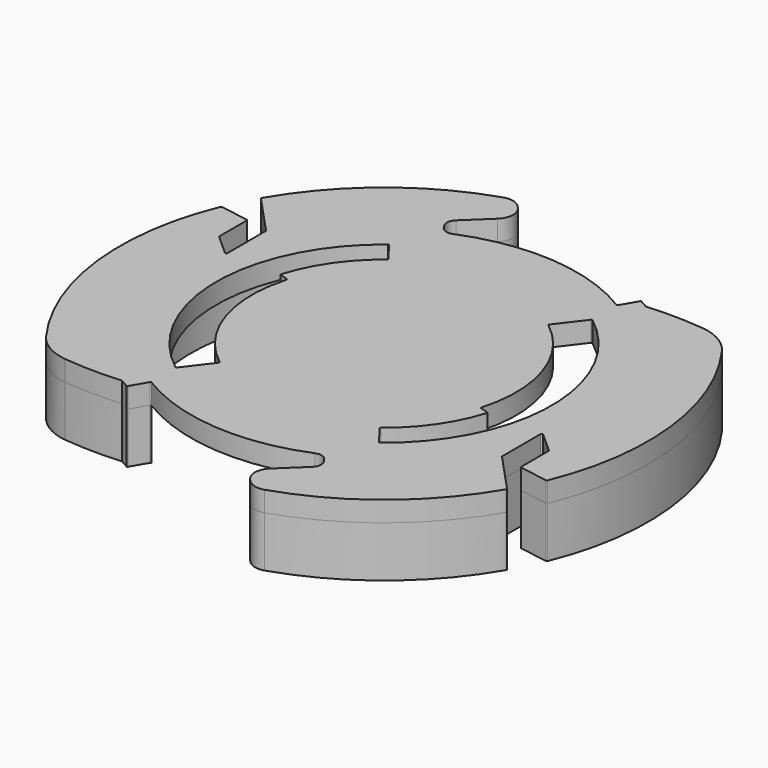
from build123d import *

# Parameters (mm, degrees)
F1_DEPTH = 2
F3_DEPTH = 5
F5_DEPTH = 5


with BuildPart() as f1:
    # F0 (on Top) → F1 (new body)
    with BuildSketch(Plane.XY):
        with BuildLine():
            ThreePointArc((-10.051418, -16.244553), (-9.989475, -16.197641), (-9.912644, -16.209241))
            ThreePointArc((-9.912644, -16.209241), (-1.493646, -18.941199), (7.249499, -17.562596))
            ThreePointArc((7.249499, -17.562596), (7.923655, -17.530709), (8.464529, -17.93439))
            Line((8.464529, -17.93439), (8.641459, -18.201273))
            ThreePointArc((8.641459, -18.201273), (8.801636, -18.866295), (8.496871, -19.478691))
            Line((8.496871, -19.478691), (6.165602, -21.694257))
            ThreePointArc((6.165602, -21.694257), (5.637265, -22.883284), (6.104443, -24.097642))
            Line((6.104443, -24.097642), (6.278833, -24.281139))
            ThreePointArc((6.278833, -24.281139), (7.093323, -24.757891), (8.036573, -24.726777))
            ThreePointArc((8.036573, -24.726777), (16.334412, -20.228371), (22.479545, -13.064075))
            ThreePointArc((22.479545, -13.064075), (22.492473, -13.002778), (22.466397, -12.945818))
            Line((22.466397, -12.945818), (18.832581, -9.028769))
            ThreePointArc((18.832581, -9.028769), (18.812803, -8.997288), (18.805892, -8.960758))
            Line((18.805892, -8.960758), (18.805892, -4.223607))
            ThreePointArc((18.805892, -4.223607), (18.865067, -4.13232), (18.972559, -4.149071))
            Line((18.972559, -4.149071), (21.008627, -5.970186))
            ThreePointArc((21.008627, -5.970186), (21.033247, -6.003897), (21.04196, -6.044721))
            Line((21.04196, -6.044721), (21.04196, -9.415485))
            ThreePointArc((21.04196, -9.415485), (21.065584, -9.480034), (21.125293, -9.514086))
            Line((21.125293, -9.514086), (23.921482, -9.986728))
            ThreePointArc((23.921482, -9.986728), (23.9866, -9.975605), (24.030574, -9.926305))
            ThreePointArc((24.030574, -9.926305), (25.818547, 3.066368), (21.037061, 15.278811))
            ThreePointArc((21.037061, 15.278811), (19.498915, 16.6664), (17.530362, 17.311453))
            ThreePointArc((17.530362, 17.311453), (14.699994, 17.483497), (11.866025, 17.387545))
            Line((11.866025, 17.387545), (11.086603, 17.837545))
            ThreePointArc((11.086603, 17.837545), (11.010721, 17.847535), (10.95, 17.800943))
            Line((10.95, 17.800943), (10.051418, 16.244553))
            ThreePointArc((10.051418, 16.244553), (9.989475, 16.197641), (9.912644, 16.209241))
            ThreePointArc((9.912644, 16.209241), (1.493646, 18.941199), (-7.249499, 17.562596))
            ThreePointArc((-7.249499, 17.562596), (-7.923655, 17.530709), (-8.464529, 17.93439))
            Line((-8.464529, 17.93439), (-8.641459, 18.201273))
            ThreePointArc((-8.641459, 18.201273), (-8.801636, 18.866295), (-8.496871, 19.478691))
            Line((-8.496871, 19.478691), (-6.165602, 21.694257))
            ThreePointArc((-6.165602, 21.694257), (-5.637265, 22.883284), (-6.104443, 24.097642))
            Line((-6.104443, 24.097642), (-6.278833, 24.281139))
            ThreePointArc((-6.278833, 24.281139), (-7.093323, 24.757891), (-8.036573, 24.726777))
            ThreePointArc((-8.036573, 24.726777), (-16.334413, 20.22837), (-22.479546, 13.064073))
            ThreePointArc((-22.479546, 13.064073), (-22.492474, 13.002778), (-22.4664, 12.945819))
            Line((-22.4664, 12.945819), (-18.832828, 9.028766))
            ThreePointArc((-18.832828, 9.028766), (-18.813053, 8.997289), (-18.806142, 8.960763))
            Line((-18.806142, 8.960763), (-18.805903, 4.223622))
            ThreePointArc((-18.805903, 4.223622), (-18.865076, 4.132331), (-18.97257, 4.149081))
            Line((-18.97257, 4.149081), (-21.008627, 5.970186))
            ThreePointArc((-21.008627, 5.970186), (-21.033247, 6.003897), (-21.04196, 6.044721))
            Line((-21.04196, 6.044721), (-21.04196, 9.415485))
            ThreePointArc((-21.04196, 9.415485), (-21.065584, 9.480034), (-21.125293, 9.514086))
            Line((-21.125293, 9.514086), (-23.921482, 9.986728))
            ThreePointArc((-23.921482, 9.986728), (-23.9866, 9.975605), (-24.030574, 9.926305))
            ThreePointArc((-24.030574, 9.926305), (-25.818547, -3.066368), (-21.037061, -15.278811))
            ThreePointArc((-21.037061, -15.278811), (-19.498915, -16.6664), (-17.530362, -17.311453))
            ThreePointArc((-17.530362, -17.311453), (-14.699994, -17.483497), (-11.866025, -17.387545))
            Line((-11.866025, -17.387545), (-11.086603, -17.837545))
            ThreePointArc((-11.086603, -17.837545), (-11.010721, -17.847535), (-10.95, -17.800943))
            Line((-10.95, -17.800943), (-10.051418, -16.244553))
        make_face()
        with BuildLine():
            Line((7.939163, 10.419678), (9.939209, 13.04462))
            ThreePointArc((9.939209, 13.04462), (10.005664, 13.083154), (10.079841, 13.063185))
            ThreePointArc((10.079841, 13.063185), (16.5, 0), (10.079841, -13.063185))
            ThreePointArc((10.079841, -13.063185), (10.005664, -13.083154), (9.939209, -13.04462))
            Line((9.939209, -13.04462), (8.54524, -11.215118))
            ThreePointArc((8.54524, -11.215118), (8.525635, -11.141474), (8.563613, -11.075402))
            ThreePointArc((8.563613, -11.075402), (11.516815, -7.960087), (13.387284, -4.096417))
            ThreePointArc((13.387284, -4.096417), (13.379797, -4.019914), (13.320232, -3.971326))
            Line((13.320232, -3.971326), (12.553559, -3.742748))
            ThreePointArc((12.553559, -3.742748), (12.494346, -3.694812), (12.486083, -3.619078))
            ThreePointArc((12.486083, -3.619078), (12.360462, 4.027281), (7.957493, 10.279995))
            ThreePointArc((7.957493, 10.279995), (7.919555, 10.346061), (7.939163, 10.419678))
        make_face(mode=Mode.SUBTRACT)
        with BuildLine():
            ThreePointArc((-10.079841, -13.063185), (-16.5, 0), (-10.079841, 13.063185))
            ThreePointArc((-10.079841, 13.063185), (-10.005664, 13.083154), (-9.939209, 13.04462))
            Line((-9.939209, 13.04462), (-8.54524, 11.215118))
            ThreePointArc((-8.54524, 11.215118), (-8.525635, 11.141474), (-8.563613, 11.075402))
            ThreePointArc((-8.563613, 11.075402), (-11.516815, 7.960087), (-13.387284, 4.096417))
            ThreePointArc((-13.387284, 4.096417), (-13.379797, 4.019914), (-13.320232, 3.971326))
            Line((-13.320232, 3.971326), (-12.553559, 3.742748))
            ThreePointArc((-12.553559, 3.742748), (-12.494346, 3.694812), (-12.486083, 3.619078))
            ThreePointArc((-12.486083, 3.619078), (-12.360462, -4.027281), (-7.957493, -10.279995))
            ThreePointArc((-7.957493, -10.279995), (-7.919555, -10.346061), (-7.939163, -10.419678))
            Line((-7.939163, -10.419678), (-9.939209, -13.04462))
            ThreePointArc((-9.939209, -13.04462), (-10.005664, -13.083154), (-10.079841, -13.063185))
        make_face(mode=Mode.SUBTRACT)
    extrude(amount=F1_DEPTH)


with BuildPart() as f3:
    # F2 (on Top) → F3 (new body)
    with BuildSketch(Plane.XY):
        with BuildLine():
            ThreePointArc((23.921482, -9.986728), (23.9866, -9.975605), (24.030574, -9.926305))
            ThreePointArc((24.030574, -9.926305), (25.818547, 3.066368), (21.037061, 15.278811))
            ThreePointArc((21.037061, 15.278811), (19.498915, 16.6664), (17.530362, 17.311453))
            ThreePointArc((17.530362, 17.311453), (14.699994, 17.483497), (11.866025, 17.387545))
            Line((11.866025, 17.387545), (11.086603, 17.837545))
            ThreePointArc((11.086603, 17.837545), (11.010721, 17.847535), (10.95, 17.800943))
            Line((10.95, 17.800943), (10.051418, 16.244553))
            ThreePointArc((10.051418, 16.244553), (9.989475, 16.197641), (9.912644, 16.209241))
            ThreePointArc((9.912644, 16.209241), (18.941199, -1.493646), (7.249499, -17.562596))
            ThreePointArc((7.249499, -17.562596), (7.923655, -17.530709), (8.464529, -17.93439))
            Line((8.464529, -17.93439), (8.641459, -18.201273))
            ThreePointArc((8.641459, -18.201273), (8.801636, -18.866295), (8.496871, -19.478691))
            Line((8.496871, -19.478691), (6.165602, -21.694257))
            ThreePointArc((6.165602, -21.694257), (5.637265, -22.883284), (6.104443, -24.097642))
            Line((6.104443, -24.097642), (6.278833, -24.281139))
            ThreePointArc((6.278833, -24.281139), (7.093323, -24.757891), (8.036573, -24.726777))
            ThreePointArc((8.036573, -24.726777), (16.334412, -20.228371), (22.479545, -13.064075))
            ThreePointArc((22.479545, -13.064075), (22.492473, -13.002778), (22.466397, -12.945818))
            Line((22.466397, -12.945818), (18.832581, -9.028769))
            ThreePointArc((18.832581, -9.028769), (18.812803, -8.997288), (18.805892, -8.960758))
            Line((18.805892, -8.960758), (18.805892, -4.223607))
            ThreePointArc((18.805892, -4.223607), (18.865067, -4.13232), (18.972559, -4.149071))
            Line((18.972559, -4.149071), (21.008627, -5.970186))
            ThreePointArc((21.008627, -5.970186), (21.033247, -6.003897), (21.04196, -6.044721))
            Line((21.04196, -6.044721), (21.04196, -9.415485))
            ThreePointArc((21.04196, -9.415485), (21.065584, -9.480034), (21.125293, -9.514086))
            Line((21.125293, -9.514086), (23.921482, -9.986728))
        make_face()
    extrude(amount=-F3_DEPTH)


with BuildPart() as f5:
    # F4 (on Top) → F5 (new body)
    with BuildSketch(Plane.XY):
        with BuildLine():
            ThreePointArc((-7.249499, 17.562596), (-7.923655, 17.530709), (-8.464529, 17.93439))
            Line((-8.464529, 17.93439), (-8.641459, 18.201273))
            ThreePointArc((-8.641459, 18.201273), (-8.801636, 18.866295), (-8.496871, 19.478691))
            Line((-8.496871, 19.478691), (-6.165602, 21.694257))
            ThreePointArc((-6.165602, 21.694257), (-5.637265, 22.883284), (-6.104443, 24.097642))
            Line((-6.104443, 24.097642), (-6.278833, 24.281139))
            ThreePointArc((-6.278833, 24.281139), (-7.093323, 24.757891), (-8.036573, 24.726777))
            ThreePointArc((-8.036573, 24.726777), (-16.334413, 20.22837), (-22.479546, 13.064073))
            ThreePointArc((-22.479546, 13.064073), (-22.492474, 13.002778), (-22.4664, 12.945819))
            Line((-22.4664, 12.945819), (-18.832828, 9.028766))
            ThreePointArc((-18.832828, 9.028766), (-18.813053, 8.997289), (-18.806142, 8.960763))
            Line((-18.806142, 8.960763), (-18.805903, 4.223622))
            ThreePointArc((-18.805903, 4.223622), (-18.865076, 4.132331), (-18.97257, 4.149081))
            Line((-18.97257, 4.149081), (-21.008627, 5.970186))
            ThreePointArc((-21.008627, 5.970186), (-21.033247, 6.003897), (-21.04196, 6.044721))
            Line((-21.04196, 6.044721), (-21.04196, 9.415485))
            ThreePointArc((-21.04196, 9.415485), (-21.065584, 9.480034), (-21.125293, 9.514086))
            Line((-21.125293, 9.514086), (-23.921482, 9.986728))
            ThreePointArc((-23.921482, 9.986728), (-23.9866, 9.975605), (-24.030574, 9.926305))
            ThreePointArc((-24.030574, 9.926305), (-25.818547, -3.066368), (-21.037061, -15.278811))
            ThreePointArc((-21.037061, -15.278811), (-19.498915, -16.6664), (-17.530362, -17.311453))
            ThreePointArc((-17.530362, -17.311453), (-14.699994, -17.483497), (-11.866025, -17.387545))
            Line((-11.866025, -17.387545), (-11.086603, -17.837545))
            ThreePointArc((-11.086603, -17.837545), (-11.010721, -17.847535), (-10.95, -17.800943))
            Line((-10.95, -17.800943), (-10.051418, -16.244553))
            ThreePointArc((-10.051418, -16.244553), (-9.989475, -16.197641), (-9.912644, -16.209241))
            ThreePointArc((-9.912644, -16.209241), (-18.941199, 1.493646), (-7.249499, 17.562596))
        make_face()
    extrude(amount=-F5_DEPTH)


solid = Compound([f1.part, f3.part, f5.part])
